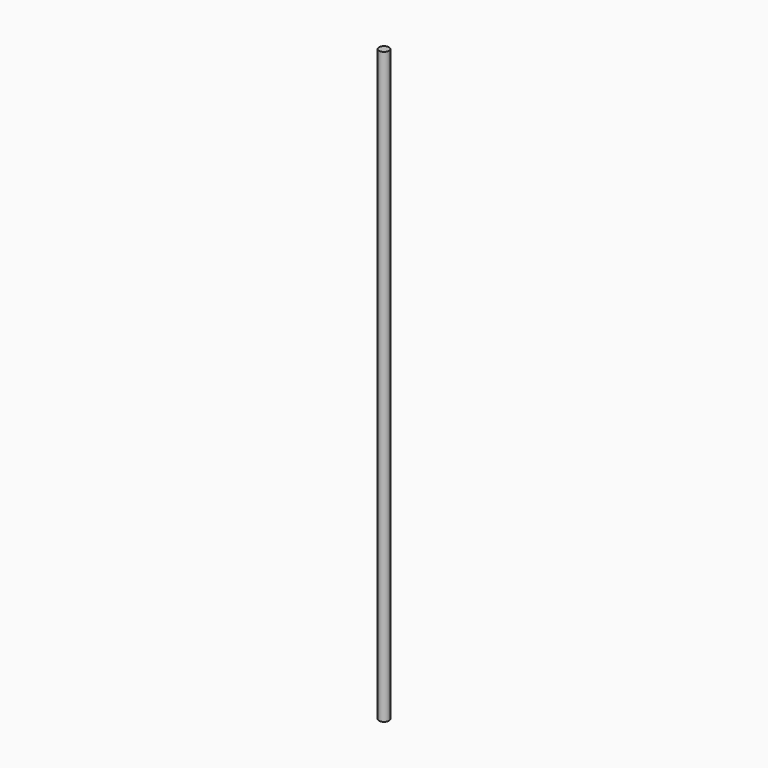
from build123d import *

# Parameters (mm, degrees)
SKETCH_R  = 4
PAD_DEPTH = 480


with BuildPart() as part:
    # Sketch → Pad (new body)
    with BuildSketch(Plane.XY):
        Circle(SKETCH_R)
    extrude(amount=PAD_DEPTH)


solid = part.part
